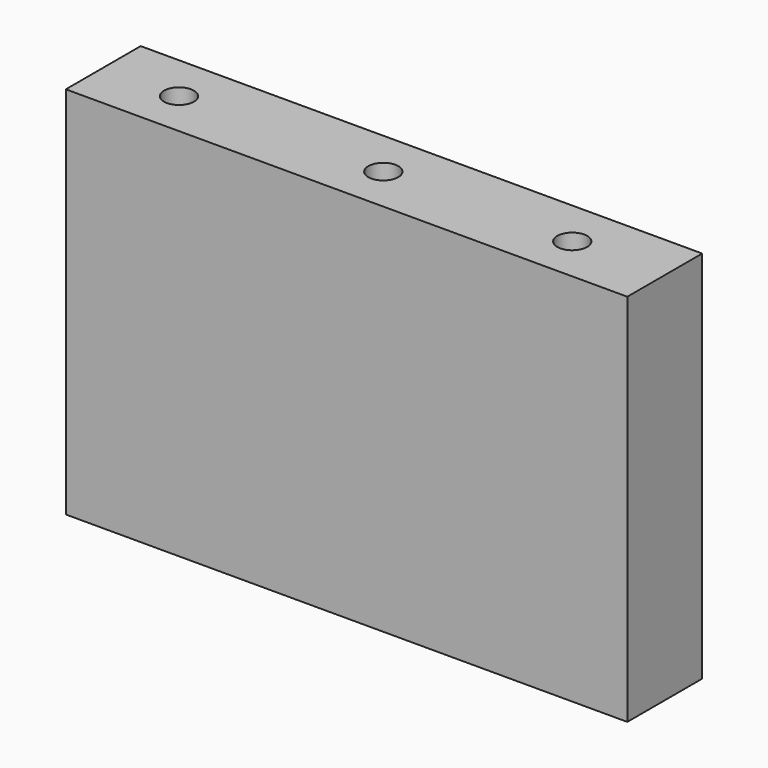
from build123d import *

# Parameters (mm, degrees)
F0_W     = 30
F0_H     = 5
F0_R     = 0.8
F1_DEPTH = 20


with BuildPart() as f1:
    # F0 (on Top) → F1 (new body)
    with BuildSketch(Plane.XY):
        with Locations((1.000807, 12.026043)):
            Rectangle(F0_W, F0_H)
        with Locations((-9.924699, 11.991361)):
            Circle(F0_R, mode=Mode.SUBTRACT)
        with Locations((0.992701, 11.991361)):
            Circle(F0_R, mode=Mode.SUBTRACT)
        with Locations((11.08732, 11.991361)):
            Circle(F0_R, mode=Mode.SUBTRACT)
    extrude(amount=F1_DEPTH)


solid = f1.part
